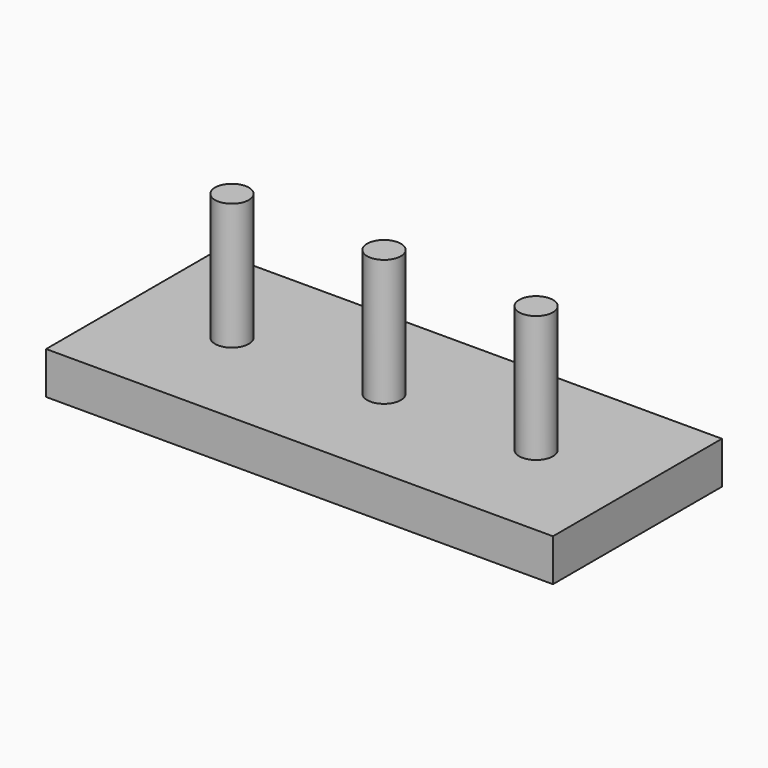
from build123d import *

# Parameters (mm, degrees)
F0_W     = 60
F0_H     = 25
F1_DEPTH = 5
F2_R     = 2
F3_DEPTH = 15
F4_R     = 2
F5_DEPTH = 15
F6_DEPTH = 15
F7_R     = 2
F8_DEPTH = 15


with BuildPart() as f1:
    # F0 (on Top) → F1 (new body)
    with BuildSketch(Plane.XY):
        Rectangle(F0_W, F0_H)
    extrude(amount=F1_DEPTH)

    # F2 (on face) → F3 (join)
    with BuildSketch(Plane.XY.offset(5)):
        Circle(F2_R)
    extrude(amount=F3_DEPTH)

    # F4 (on face) → F5 (join)
    with BuildSketch(Plane.XY.offset(5)):
        with Locations((18, 0)):
            Circle(F4_R)
    extrude(amount=F5_DEPTH)

    # F4 (on face) → F6 (join)
    with BuildSketch(Plane.XY.offset(5)):
        with Locations((18, 0)):
            Circle(F4_R)
    extrude(amount=F6_DEPTH)

    # F7 (on face) → F8 (join)
    with BuildSketch(Plane.XY.offset(5)):
        with Locations((-18, 0)):
            Circle(F7_R)
    extrude(amount=F8_DEPTH)


solid = f1.part
